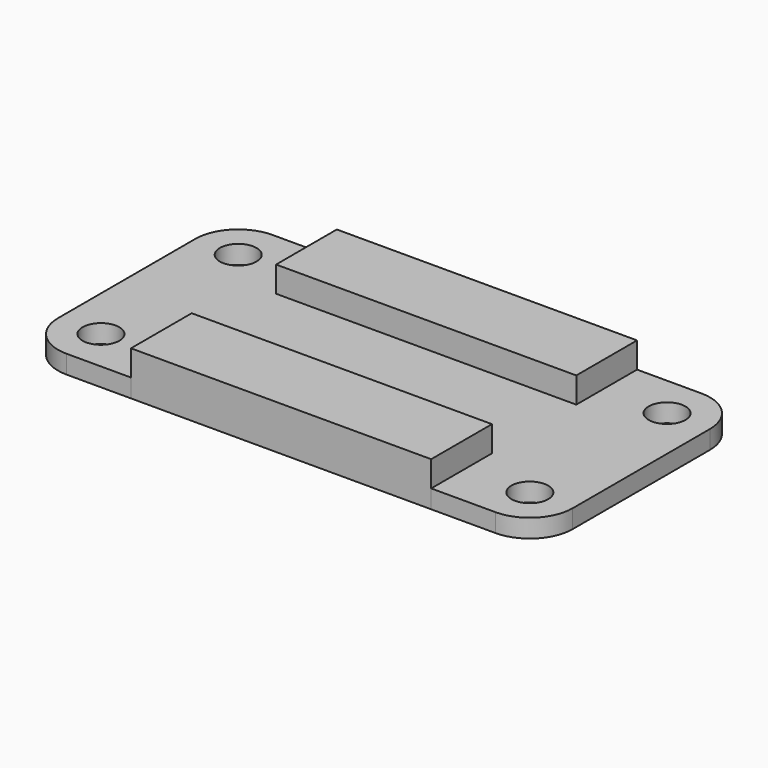
from build123d import *

# Parameters (mm, degrees)
SKETCH_R     = 1.5
PAD_DEPTH    = 1.5
SKETCH001_W  = 24.5
SKETCH001_H  = 6.196515
PAD001_DEPTH = 3.6


with BuildPart() as part:
    # Sketch → Pad (new body)
    with BuildSketch(Plane.XY):
        with BuildLine():
            ThreePointArc((-17.5, 10.5), (-19.974874, 9.474874), (-21, 7))
            Line((-21, -7), (-21, 7))
            ThreePointArc((-21, -7), (-19.974874, -9.474874), (-17.5, -10.5))
            Line((17.5, -10.5), (-17.5, -10.5))
            ThreePointArc((17.5, -10.5), (19.974874, -9.474874), (21, -7))
            Line((21, 7), (21, -7))
            ThreePointArc((21, 7), (19.974874, 9.474874), (17.5, 10.5))
            Line((-17.5, 10.5), (17.5, 10.5))
        make_face()
        with Locations((-17.5, 7)):
            Circle(SKETCH_R, mode=Mode.SUBTRACT)
        with Locations((-17.5, -7)):
            Circle(SKETCH_R, mode=Mode.SUBTRACT)
        with Locations((17.5, 7)):
            Circle(SKETCH_R, mode=Mode.SUBTRACT)
        with Locations((17.5, -7)):
            Circle(SKETCH_R, mode=Mode.SUBTRACT)
    extrude(amount=PAD_DEPTH)

    # Sketch001 → Pad001 (join)
    with BuildSketch(Plane.XY):
        with Locations((0, 7.401743)):
            Rectangle(SKETCH001_W, SKETCH001_H)
        with Locations((0, -7.401743)):
            Rectangle(SKETCH001_W, SKETCH001_H)
    extrude(amount=PAD001_DEPTH)


solid = part.part
